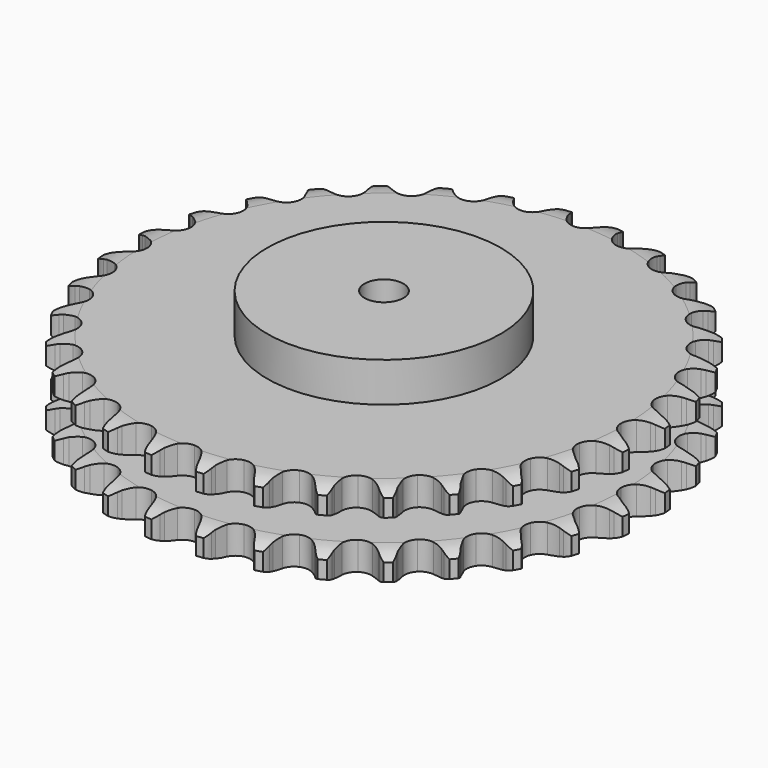
from build123d import *

# Parameters (mm, degrees)
PAD_DEPTH         = 54.6
SKETCH001_R       = 75
PAD001_DEPTH      = 80
SKETCH002_R       = 12.5
POCKET_DEPTH      = 0.001
POCKET_DEPTH_BACK = 80.001


with BuildPart() as part:
    # Sprocket → Pad (new body)
    with BuildSketch(Plane.XY):
        with BuildLine():
            ThreePointArc((-16.894474, 171.53247), (-13.98853, 168.510578), (-11.996029, 164.821908))
            Line((-11.996029, 164.821908), (-11.066755, 162.352885))
            ThreePointArc((-11.066755, 162.352885), (-9.59611, 159.153635), (-7.688066, 156.194349))
            ThreePointArc((-7.688066, 156.194349), (-4.297664, 153.365184), (0, 152.350744))
            ThreePointArc((0, 152.350744), (4.297664, 153.365184), (7.688066, 156.194349))
            ThreePointArc((7.688066, 156.194349), (9.59611, 159.153635), (11.066755, 162.352885))
            Line((11.066755, 162.352885), (11.996029, 164.821908))
            ThreePointArc((11.996029, 164.821908), (13.98853, 168.510578), (16.894474, 171.53247))
            ThreePointArc((16.894474, 171.53247), (19.155039, 168.001721), (20.38963, 163.99521))
            Line((20.38963, 163.99521), (20.819366, 161.392337))
            ThreePointArc((20.819366, 161.392337), (21.637611, 157.96765), (22.931663, 154.692986))
            ThreePointArc((22.931663, 154.692986), (25.704977, 151.256747), (29.722156, 149.423367))
            ThreePointArc((29.722156, 149.423367), (34.135149, 149.579882), (38.012348, 151.693251))
            Line((38.012348, 151.693251), (42.527587, 157.074303))
            ThreePointArc((42.527587, 157.074303), (43.194389, 158.212947), (43.920688, 159.314592))
            ThreePointArc((43.920688, 159.314592), (46.594527, 162.543668), (50.034176, 164.940573))
            ThreePointArc((50.034176, 164.940573), (51.56249, 161.036652), (51.991727, 156.866269))
            Line((51.991727, 156.866269), (51.905411, 154.229572))
            ThreePointArc((51.905411, 154.229572), (52.03981, 150.711058), (52.670142, 147.246858))
            ThreePointArc((52.670142, 147.246858), (54.719791, 143.335599), (58.302106, 140.753734))
            ThreePointArc((58.302106, 140.753734), (62.660839, 140.046309), (66.875837, 141.362666))
            Line((66.875837, 141.362666), (72.354108, 145.759444))
            ThreePointArc((72.354108, 145.759444), (73.230235, 146.746122), (74.157499, 147.684905))
            ThreePointArc((74.157499, 147.684905), (77.409922, 150.330295), (81.251093, 152.010103))
            ThreePointArc((81.251093, 152.010103), (81.988424, 147.883036), (81.595812, 143.709045))
            Line((81.595812, 143.709045), (80.99676, 141.13985))
            ThreePointArc((80.99676, 141.13985), (80.442148, 137.662724), (80.384537, 134.142116))
            ThreePointArc((80.384537, 134.142116), (81.631754, 129.906144), (84.641538, 126.675014))
            ThreePointArc((84.641538, 126.675014), (88.778508, 125.130835), (93.169324, 125.599594))
            Line((93.169324, 125.599594), (99.400101, 128.843131))
            ThreePointArc((99.400101, 128.843131), (100.451885, 129.639926), (101.54448, 130.379771))
            ThreePointArc((101.54448, 130.379771), (105.250498, 132.339814), (109.345576, 133.23797))
            ThreePointArc((109.345576, 133.23797), (109.263588, 129.046356), (108.064215, 125.029162))
            Line((108.064215, 125.029162), (106.975448, 122.626204))
            ThreePointArc((106.975448, 122.626204), (105.75314, 119.324089), (105.009799, 115.882367))
            ThreePointArc((105.009799, 115.882367), (105.406654, 111.484469), (107.728244, 107.728244))
            ThreePointArc((107.728244, 107.728244), (111.484469, 105.406654), (115.882367, 105.009799))
            Line((115.882367, 105.009799), (122.626204, 106.975448))
            ThreePointArc((122.626204, 106.975448), (123.813225, 107.551741), (125.029162, 108.064215))
            ThreePointArc((125.029162, 108.064215), (129.046356, 109.263588), (133.23797, 109.345576))
            ThreePointArc((133.23797, 109.345576), (132.339814, 105.250498), (130.379771, 101.54448))
            Line((130.379771, 101.54448), (128.843131, 99.400101))
            ThreePointArc((128.843131, 99.400101), (127.000098, 96.399896), (125.599594, 93.169324))
            ThreePointArc((125.599594, 93.169324), (125.130835, 88.778508), (126.675014, 84.641538))
            ThreePointArc((126.675014, 84.641538), (129.906144, 81.631754), (134.142116, 80.384537))
            Line((134.142116, 80.384537), (141.13985, 80.99676))
            ThreePointArc((141.13985, 80.99676), (142.416493, 81.330402), (143.709045, 81.595812))
            ThreePointArc((143.709045, 81.595812), (147.883036, 81.988424), (152.010103, 81.251093))
            ThreePointArc((152.010103, 81.251093), (150.330295, 77.409922), (147.684905, 74.157499))
            Line((147.684905, 74.157499), (145.759444, 72.354108))
            ThreePointArc((145.759444, 72.354108), (143.366513, 69.771109), (141.362666, 66.875837))
            ThreePointArc((141.362666, 66.875837), (140.046309, 62.660839), (140.753734, 58.302106))
            ThreePointArc((140.753734, 58.302106), (143.335599, 54.719791), (147.246858, 52.670142))
            Line((147.246858, 52.670142), (154.229572, 51.905411))
            ThreePointArc((154.229572, 51.905411), (155.546774, 51.983582), (156.866269, 51.991727))
            ThreePointArc((156.866269, 51.991727), (161.036652, 51.56249), (164.940573, 50.034176))
            ThreePointArc((164.940573, 50.034176), (162.543668, 46.594527), (159.314592, 43.920688))
            Line((159.314592, 43.920688), (157.074303, 42.527587))
            ThreePointArc((157.074303, 42.527587), (154.223434, 40.461057), (151.693251, 38.012348))
            ThreePointArc((151.693251, 38.012348), (149.579882, 34.135149), (149.423367, 29.722156))
            ThreePointArc((149.423367, 29.722156), (151.256747, 25.704977), (154.692986, 22.931663))
            Line((154.692986, 22.931663), (161.392337, 20.819366))
            ThreePointArc((161.392337, 20.819366), (162.69948, 20.639062), (163.99521, 20.38963))
            ThreePointArc((163.99521, 20.38963), (168.001721, 19.155039), (171.53247, 16.894474))
            ThreePointArc((171.53247, 16.894474), (168.510578, 13.98853), (164.821908, 11.996029))
            Line((164.821908, 11.996029), (162.352885, 11.066755))
            ThreePointArc((162.352885, 11.066755), (159.153635, 9.59611), (156.194349, 7.688066))
            ThreePointArc((156.194349, 7.688066), (153.365184, 4.297664), (152.350744, 0))
            ThreePointArc((152.350744, 0), (153.365184, -4.297664), (156.194349, -7.688066))
            Line((156.194349, -7.688066), (162.352885, -11.066755))
            ThreePointArc((162.352885, -11.066755), (163.599737, -11.498606), (164.821908, -11.996029))
            ThreePointArc((164.821908, -11.996029), (168.510578, -13.98853), (171.53247, -16.894474))
            ThreePointArc((171.53247, -16.894474), (168.001721, -19.155039), (163.99521, -20.38963))
            Line((163.99521, -20.38963), (161.392337, -20.819366))
            ThreePointArc((161.392337, -20.819366), (157.96765, -21.637611), (154.692986, -22.931663))
            ThreePointArc((154.692986, -22.931663), (151.256747, -25.704977), (149.423367, -29.722156))
            ThreePointArc((149.423367, -29.722156), (149.579882, -34.135149), (151.693251, -38.012348))
            Line((151.693251, -38.012348), (157.074303, -42.527587))
            ThreePointArc((157.074303, -42.527587), (158.212947, -43.194389), (159.314592, -43.920688))
            ThreePointArc((159.314592, -43.920688), (162.543668, -46.594527), (164.940573, -50.034176))
            ThreePointArc((164.940573, -50.034176), (161.036652, -51.56249), (156.866269, -51.991727))
            Line((156.866269, -51.991727), (154.229572, -51.905411))
            ThreePointArc((154.229572, -51.905411), (150.711058, -52.03981), (147.246858, -52.670142))
            ThreePointArc((147.246858, -52.670142), (143.335599, -54.719791), (140.753734, -58.302106))
            ThreePointArc((140.753734, -58.302106), (140.046309, -62.660839), (141.362666, -66.875837))
            Line((141.362666, -66.875837), (145.759444, -72.354108))
            ThreePointArc((145.759444, -72.354108), (146.746122, -73.230235), (147.684905, -74.157499))
            ThreePointArc((147.684905, -74.157499), (150.330295, -77.409922), (152.010103, -81.251093))
            ThreePointArc((152.010103, -81.251093), (147.883036, -81.988424), (143.709045, -81.595812))
            Line((143.709045, -81.595812), (141.13985, -80.99676))
            ThreePointArc((141.13985, -80.99676), (137.662724, -80.442148), (134.142116, -80.384537))
            ThreePointArc((134.142116, -80.384537), (129.906144, -81.631754), (126.675014, -84.641538))
            ThreePointArc((126.675014, -84.641538), (125.130835, -88.778508), (125.599594, -93.169324))
            Line((125.599594, -93.169324), (128.843131, -99.400101))
            ThreePointArc((128.843131, -99.400101), (129.639926, -100.451885), (130.379771, -101.54448))
            ThreePointArc((130.379771, -101.54448), (132.339814, -105.250498), (133.23797, -109.345576))
            ThreePointArc((133.23797, -109.345576), (129.046356, -109.263588), (125.029162, -108.064215))
            Line((125.029162, -108.064215), (122.626204, -106.975448))
            ThreePointArc((122.626204, -106.975448), (119.324089, -105.75314), (115.882367, -105.009799))
            ThreePointArc((115.882367, -105.009799), (111.484469, -105.406654), (107.728244, -107.728244))
            ThreePointArc((107.728244, -107.728244), (105.406654, -111.484469), (105.009799, -115.882367))
            Line((105.009799, -115.882367), (106.975448, -122.626204))
            ThreePointArc((106.975448, -122.626204), (107.551741, -123.813225), (108.064215, -125.029162))
            ThreePointArc((108.064215, -125.029162), (109.263588, -129.046356), (109.345576, -133.23797))
            ThreePointArc((109.345576, -133.23797), (105.250498, -132.339814), (101.54448, -130.379771))
            Line((101.54448, -130.379771), (99.400101, -128.843131))
            ThreePointArc((99.400101, -128.843131), (96.399896, -127.000098), (93.169324, -125.599594))
            ThreePointArc((93.169324, -125.599594), (88.778508, -125.130835), (84.641538, -126.675014))
            ThreePointArc((84.641538, -126.675014), (81.631754, -129.906144), (80.384537, -134.142116))
            Line((80.384537, -134.142116), (80.99676, -141.13985))
            ThreePointArc((80.99676, -141.13985), (81.330402, -142.416493), (81.595812, -143.709045))
            ThreePointArc((81.595812, -143.709045), (81.988424, -147.883036), (81.251093, -152.010103))
            ThreePointArc((81.251093, -152.010103), (77.409922, -150.330295), (74.157499, -147.684905))
            Line((74.157499, -147.684905), (72.354108, -145.759444))
            ThreePointArc((72.354108, -145.759444), (69.771109, -143.366513), (66.875837, -141.362666))
            ThreePointArc((66.875837, -141.362666), (62.660839, -140.046309), (58.302106, -140.753734))
            ThreePointArc((58.302106, -140.753734), (54.719791, -143.335599), (52.670142, -147.246858))
            Line((52.670142, -147.246858), (51.905411, -154.229572))
            ThreePointArc((51.905411, -154.229572), (51.983582, -155.546774), (51.991727, -156.866269))
            ThreePointArc((51.991727, -156.866269), (51.56249, -161.036652), (50.034176, -164.940573))
            ThreePointArc((50.034176, -164.940573), (46.594527, -162.543668), (43.920688, -159.314592))
            Line((43.920688, -159.314592), (42.527587, -157.074303))
            ThreePointArc((42.527587, -157.074303), (40.461057, -154.223434), (38.012348, -151.693251))
            ThreePointArc((38.012348, -151.693251), (34.135149, -149.579882), (29.722156, -149.423367))
            ThreePointArc((29.722156, -149.423367), (25.704977, -151.256747), (22.931663, -154.692986))
            Line((22.931663, -154.692986), (20.819366, -161.392337))
            ThreePointArc((20.819366, -161.392337), (20.639062, -162.69948), (20.38963, -163.99521))
            ThreePointArc((20.38963, -163.99521), (19.155039, -168.001721), (16.894474, -171.53247))
            ThreePointArc((16.894474, -171.53247), (13.98853, -168.510578), (11.996029, -164.821908))
            Line((11.996029, -164.821908), (11.066755, -162.352885))
            ThreePointArc((11.066755, -162.352885), (9.59611, -159.153635), (7.688066, -156.194349))
            ThreePointArc((7.688066, -156.194349), (4.297664, -153.365184), (0, -152.350744))
            ThreePointArc((0, -152.350744), (-4.297664, -153.365184), (-7.688066, -156.194349))
            Line((-7.688066, -156.194349), (-11.066755, -162.352885))
            ThreePointArc((-11.066755, -162.352885), (-11.498606, -163.599737), (-11.996029, -164.821908))
            ThreePointArc((-11.996029, -164.821908), (-13.98853, -168.510578), (-16.894474, -171.53247))
            ThreePointArc((-16.894474, -171.53247), (-19.155039, -168.001721), (-20.38963, -163.99521))
            Line((-20.38963, -163.99521), (-20.819366, -161.392337))
            ThreePointArc((-20.819366, -161.392337), (-21.637611, -157.96765), (-22.931663, -154.692986))
            ThreePointArc((-22.931663, -154.692986), (-25.704977, -151.256747), (-29.722156, -149.423367))
            ThreePointArc((-29.722156, -149.423367), (-34.135149, -149.579882), (-38.012348, -151.693251))
            Line((-38.012348, -151.693251), (-42.527587, -157.074303))
            ThreePointArc((-42.527587, -157.074303), (-43.194389, -158.212947), (-43.920688, -159.314592))
            ThreePointArc((-43.920688, -159.314592), (-46.594527, -162.543668), (-50.034176, -164.940573))
            ThreePointArc((-50.034176, -164.940573), (-51.56249, -161.036652), (-51.991727, -156.866269))
            Line((-51.991727, -156.866269), (-51.905411, -154.229572))
            ThreePointArc((-51.905411, -154.229572), (-52.03981, -150.711058), (-52.670142, -147.246858))
            ThreePointArc((-52.670142, -147.246858), (-54.719791, -143.335599), (-58.302106, -140.753734))
            ThreePointArc((-58.302106, -140.753734), (-62.660839, -140.046309), (-66.875837, -141.362666))
            Line((-66.875837, -141.362666), (-72.354108, -145.759444))
            ThreePointArc((-72.354108, -145.759444), (-73.230235, -146.746122), (-74.157499, -147.684905))
            ThreePointArc((-74.157499, -147.684905), (-77.409922, -150.330295), (-81.251093, -152.010103))
            ThreePointArc((-81.251093, -152.010103), (-81.988424, -147.883036), (-81.595812, -143.709045))
            Line((-81.595812, -143.709045), (-80.99676, -141.13985))
            ThreePointArc((-80.99676, -141.13985), (-80.442148, -137.662724), (-80.384537, -134.142116))
            ThreePointArc((-80.384537, -134.142116), (-81.631754, -129.906144), (-84.641538, -126.675014))
            ThreePointArc((-84.641538, -126.675014), (-88.778508, -125.130835), (-93.169324, -125.599594))
            Line((-93.169324, -125.599594), (-99.400101, -128.843131))
            ThreePointArc((-99.400101, -128.843131), (-100.451885, -129.639926), (-101.54448, -130.379771))
            ThreePointArc((-101.54448, -130.379771), (-105.250498, -132.339814), (-109.345576, -133.23797))
            ThreePointArc((-109.345576, -133.23797), (-109.263588, -129.046356), (-108.064215, -125.029162))
            Line((-108.064215, -125.029162), (-106.975448, -122.626204))
            ThreePointArc((-106.975448, -122.626204), (-105.75314, -119.324089), (-105.009799, -115.882367))
            ThreePointArc((-105.009799, -115.882367), (-105.406654, -111.484469), (-107.728244, -107.728244))
            ThreePointArc((-107.728244, -107.728244), (-111.484469, -105.406654), (-115.882367, -105.009799))
            Line((-115.882367, -105.009799), (-122.626204, -106.975448))
            ThreePointArc((-122.626204, -106.975448), (-123.813225, -107.551741), (-125.029162, -108.064215))
            ThreePointArc((-125.029162, -108.064215), (-129.046356, -109.263588), (-133.23797, -109.345576))
            ThreePointArc((-133.23797, -109.345576), (-132.339814, -105.250498), (-130.379771, -101.54448))
            Line((-130.379771, -101.54448), (-128.843131, -99.400101))
            ThreePointArc((-128.843131, -99.400101), (-127.000098, -96.399896), (-125.599594, -93.169324))
            ThreePointArc((-125.599594, -93.169324), (-125.130835, -88.778508), (-126.675014, -84.641538))
            ThreePointArc((-126.675014, -84.641538), (-129.906144, -81.631754), (-134.142116, -80.384537))
            Line((-134.142116, -80.384537), (-141.13985, -80.99676))
            ThreePointArc((-141.13985, -80.99676), (-142.416493, -81.330402), (-143.709045, -81.595812))
            ThreePointArc((-143.709045, -81.595812), (-147.883036, -81.988424), (-152.010103, -81.251093))
            ThreePointArc((-152.010103, -81.251093), (-150.330295, -77.409922), (-147.684905, -74.157499))
            Line((-147.684905, -74.157499), (-145.759444, -72.354108))
            ThreePointArc((-145.759444, -72.354108), (-143.366513, -69.771109), (-141.362666, -66.875837))
            ThreePointArc((-141.362666, -66.875837), (-140.046309, -62.660839), (-140.753734, -58.302106))
            ThreePointArc((-140.753734, -58.302106), (-143.335599, -54.719791), (-147.246858, -52.670142))
            Line((-147.246858, -52.670142), (-154.229572, -51.905411))
            ThreePointArc((-154.229572, -51.905411), (-155.546774, -51.983582), (-156.866269, -51.991727))
            ThreePointArc((-156.866269, -51.991727), (-161.036652, -51.56249), (-164.940573, -50.034176))
            ThreePointArc((-164.940573, -50.034176), (-162.543668, -46.594527), (-159.314592, -43.920688))
            Line((-159.314592, -43.920688), (-157.074303, -42.527587))
            ThreePointArc((-157.074303, -42.527587), (-154.223434, -40.461057), (-151.693251, -38.012348))
            ThreePointArc((-151.693251, -38.012348), (-149.579882, -34.135149), (-149.423367, -29.722156))
            ThreePointArc((-149.423367, -29.722156), (-151.256747, -25.704977), (-154.692986, -22.931663))
            Line((-154.692986, -22.931663), (-161.392337, -20.819366))
            ThreePointArc((-161.392337, -20.819366), (-162.69948, -20.639062), (-163.99521, -20.38963))
            ThreePointArc((-163.99521, -20.38963), (-168.001721, -19.155039), (-171.53247, -16.894474))
            ThreePointArc((-171.53247, -16.894474), (-168.510578, -13.98853), (-164.821908, -11.996029))
            Line((-164.821908, -11.996029), (-162.352885, -11.066755))
            ThreePointArc((-162.352885, -11.066755), (-159.153635, -9.59611), (-156.194349, -7.688066))
            ThreePointArc((-156.194349, -7.688066), (-153.365184, -4.297664), (-152.350744, 0))
            ThreePointArc((-152.350744, 0), (-153.365184, 4.297664), (-156.194349, 7.688066))
            Line((-156.194349, 7.688066), (-162.352885, 11.066755))
            ThreePointArc((-162.352885, 11.066755), (-163.599737, 11.498606), (-164.821908, 11.996029))
            ThreePointArc((-164.821908, 11.996029), (-168.510578, 13.98853), (-171.53247, 16.894474))
            ThreePointArc((-171.53247, 16.894474), (-168.001721, 19.155039), (-163.99521, 20.38963))
            Line((-163.99521, 20.38963), (-161.392337, 20.819366))
            ThreePointArc((-161.392337, 20.819366), (-157.96765, 21.637611), (-154.692986, 22.931663))
            ThreePointArc((-154.692986, 22.931663), (-151.256747, 25.704977), (-149.423367, 29.722156))
            ThreePointArc((-149.423367, 29.722156), (-149.579882, 34.135149), (-151.693251, 38.012348))
            Line((-151.693251, 38.012348), (-157.074303, 42.527587))
            ThreePointArc((-157.074303, 42.527587), (-158.212947, 43.194389), (-159.314592, 43.920688))
            ThreePointArc((-159.314592, 43.920688), (-162.543668, 46.594527), (-164.940573, 50.034176))
            ThreePointArc((-164.940573, 50.034176), (-161.036652, 51.56249), (-156.866269, 51.991727))
            Line((-156.866269, 51.991727), (-154.229572, 51.905411))
            ThreePointArc((-154.229572, 51.905411), (-150.711058, 52.03981), (-147.246858, 52.670142))
            ThreePointArc((-147.246858, 52.670142), (-143.335599, 54.719791), (-140.753734, 58.302106))
            ThreePointArc((-140.753734, 58.302106), (-140.046309, 62.660839), (-141.362666, 66.875837))
            Line((-141.362666, 66.875837), (-145.759444, 72.354108))
            ThreePointArc((-145.759444, 72.354108), (-146.746122, 73.230235), (-147.684905, 74.157499))
            ThreePointArc((-147.684905, 74.157499), (-150.330295, 77.409922), (-152.010103, 81.251093))
            ThreePointArc((-152.010103, 81.251093), (-147.883036, 81.988424), (-143.709045, 81.595812))
            Line((-143.709045, 81.595812), (-141.13985, 80.99676))
            ThreePointArc((-141.13985, 80.99676), (-137.662724, 80.442148), (-134.142116, 80.384537))
            ThreePointArc((-134.142116, 80.384537), (-129.906144, 81.631754), (-126.675014, 84.641538))
            ThreePointArc((-126.675014, 84.641538), (-125.130835, 88.778508), (-125.599594, 93.169324))
            Line((-125.599594, 93.169324), (-128.843131, 99.400101))
            ThreePointArc((-128.843131, 99.400101), (-129.639926, 100.451885), (-130.379771, 101.54448))
            ThreePointArc((-130.379771, 101.54448), (-132.339814, 105.250498), (-133.23797, 109.345576))
            ThreePointArc((-133.23797, 109.345576), (-129.046356, 109.263588), (-125.029162, 108.064215))
            Line((-125.029162, 108.064215), (-122.626204, 106.975448))
            ThreePointArc((-122.626204, 106.975448), (-119.324089, 105.75314), (-115.882367, 105.009799))
            ThreePointArc((-115.882367, 105.009799), (-111.484469, 105.406654), (-107.728244, 107.728244))
            ThreePointArc((-107.728244, 107.728244), (-105.406654, 111.484469), (-105.009799, 115.882367))
            Line((-105.009799, 115.882367), (-106.975448, 122.626204))
            ThreePointArc((-106.975448, 122.626204), (-107.551741, 123.813225), (-108.064215, 125.029162))
            ThreePointArc((-108.064215, 125.029162), (-109.263588, 129.046356), (-109.345576, 133.23797))
            ThreePointArc((-109.345576, 133.23797), (-105.250498, 132.339814), (-101.54448, 130.379771))
            Line((-101.54448, 130.379771), (-99.400101, 128.843131))
            ThreePointArc((-99.400101, 128.843131), (-96.399896, 127.000098), (-93.169324, 125.599594))
            ThreePointArc((-93.169324, 125.599594), (-88.778508, 125.130835), (-84.641538, 126.675014))
            ThreePointArc((-84.641538, 126.675014), (-81.631754, 129.906144), (-80.384537, 134.142116))
            Line((-80.384537, 134.142116), (-80.99676, 141.13985))
            ThreePointArc((-80.99676, 141.13985), (-81.330402, 142.416493), (-81.595812, 143.709045))
            ThreePointArc((-81.595812, 143.709045), (-81.988424, 147.883036), (-81.251093, 152.010103))
            ThreePointArc((-81.251093, 152.010103), (-77.409922, 150.330295), (-74.157499, 147.684905))
            Line((-74.157499, 147.684905), (-72.354108, 145.759444))
            ThreePointArc((-72.354108, 145.759444), (-69.771109, 143.366513), (-66.875837, 141.362666))
            ThreePointArc((-66.875837, 141.362666), (-62.660839, 140.046309), (-58.302106, 140.753734))
            ThreePointArc((-58.302106, 140.753734), (-54.719791, 143.335599), (-52.670142, 147.246858))
            Line((-52.670142, 147.246858), (-51.905411, 154.229572))
            ThreePointArc((-51.905411, 154.229572), (-51.983582, 155.546774), (-51.991727, 156.866269))
            ThreePointArc((-51.991727, 156.866269), (-51.56249, 161.036652), (-50.034176, 164.940573))
            ThreePointArc((-50.034176, 164.940573), (-46.594527, 162.543668), (-43.920688, 159.314592))
            Line((-43.920688, 159.314592), (-42.527587, 157.074303))
            ThreePointArc((-42.527587, 157.074303), (-40.461057, 154.223434), (-38.012348, 151.693251))
            ThreePointArc((-38.012348, 151.693251), (-34.135149, 149.579882), (-29.722156, 149.423367))
            ThreePointArc((-29.722156, 149.423367), (-25.704977, 151.256747), (-22.931663, 154.692986))
            Line((-22.931663, 154.692986), (-20.819366, 161.392337))
            ThreePointArc((-20.819366, 161.392337), (-20.639062, 162.69948), (-20.38963, 163.99521))
            ThreePointArc((-20.38963, 163.99521), (-19.155039, 168.001721), (-16.894474, 171.53247))
        make_face()
    extrude(amount=PAD_DEPTH)

    # Sketch → Groove (revolve, cut)
    with BuildSketch(Plane.XZ):
        with BuildLine():
            ThreePointArc((154.998368, 0), (162.481683, 0.887302), (169.55, 3.5))
            Line((169.55, 3.5), (169.55, 14.7))
            ThreePointArc((169.55, 14.7), (162.481683, 17.312698), (154.998368, 18.2))
            Line((75, 18.2), (154.998368, 18.2))
            Line((75, 36.4), (75, 18.2))
            Line((154.998368, 36.4), (75, 36.4))
            ThreePointArc((154.998368, 36.4), (162.481683, 37.287302), (169.55, 39.9))
            Line((169.55, 39.9), (169.55, 51.1))
            ThreePointArc((169.55, 51.1), (162.481683, 53.712698), (154.998368, 54.6))
            Line((154.998368, 54.6), (179.55, 54.6))
            Line((179.55, 54.6), (179.55, 0))
            Line((154.998368, 0), (179.55, 0))
        make_face()
    revolve(axis=Axis((0, 0, 0), (0, 0, 1)), mode=Mode.SUBTRACT)

    # Sketch001 → Pad001 (join)
    with BuildSketch(Plane.XY):
        Circle(SKETCH001_R)
    extrude(amount=PAD001_DEPTH)

    # Sketch002 → Pocket (cut, two sides)
    with BuildSketch(Plane.XY) as pocket_sk:
        Circle(SKETCH002_R)
    extrude(amount=-POCKET_DEPTH, mode=Mode.SUBTRACT)
    extrude(pocket_sk.sketch, amount=POCKET_DEPTH_BACK, mode=Mode.SUBTRACT)


solid = part.part
